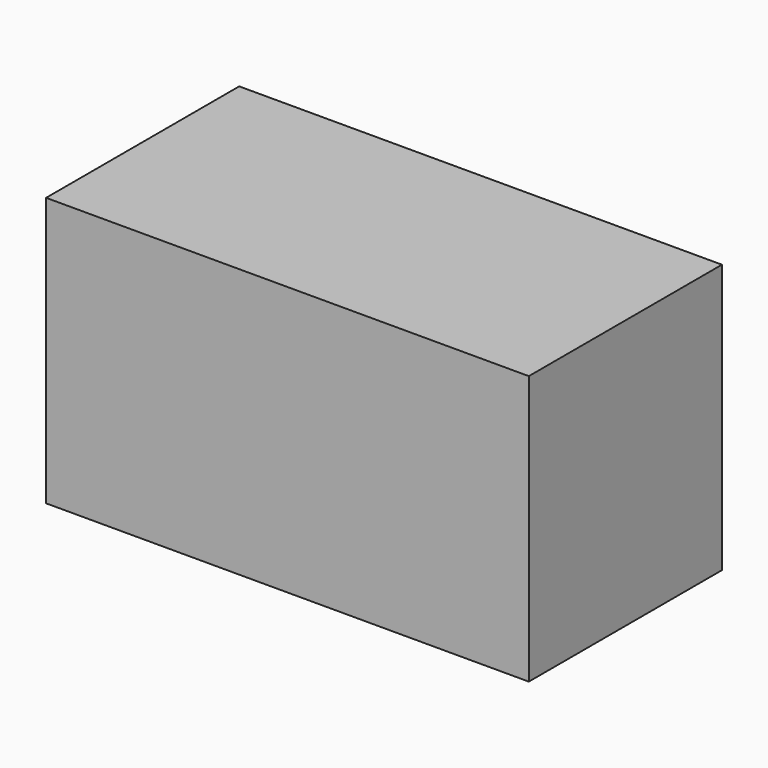
from build123d import *

# Parameters (mm, degrees)
F0_W          = 70
F0_H          = 39
F1_DEPTH      = 17.5
F2_R          = 19.5
F3_DEPTH      = 2
F3_DEPTH_BACK = 2


with BuildPart() as f1:
    # F0 (on Front) → F1 (new body, symmetric)
    with BuildSketch(Plane.XZ):
        Rectangle(F0_W, F0_H)
    extrude(amount=F1_DEPTH, both=True)

    # F2 (on Front) → F3 (join, two sides)
    with BuildSketch(Plane.XZ) as f3_sk:
        with Locations((15.42504, -0.176564)):
            Circle(F2_R)
    extrude(amount=F3_DEPTH)
    extrude(f3_sk.sketch, amount=-F3_DEPTH_BACK)


solid = f1.part
